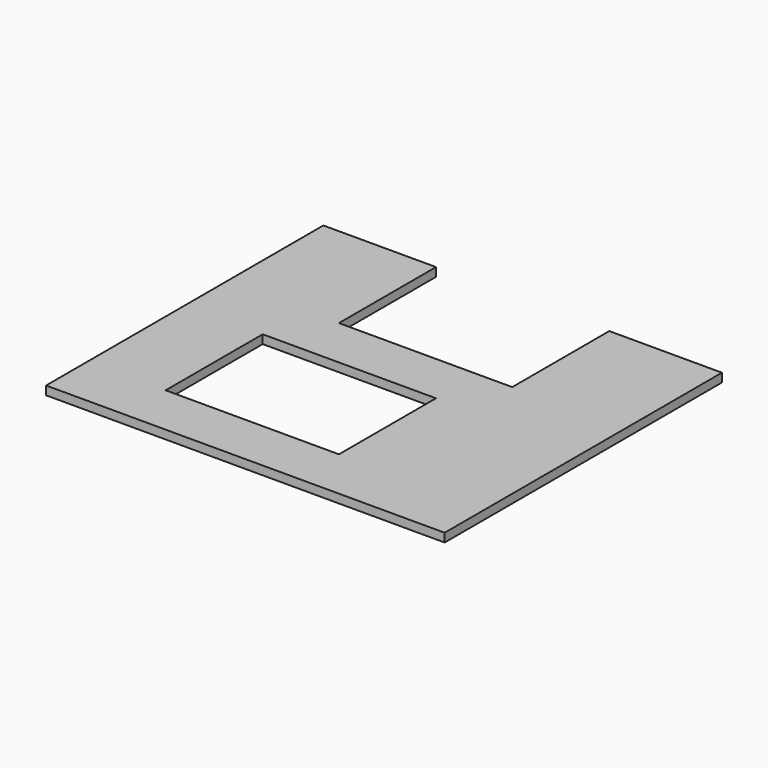
from build123d import *

# Parameters (mm, degrees)
F0_W     = 230
F0_H     = 200
F1_DEPTH = 5
F2_W     = 100
F2_H     = 70
F3_DEPTH = 25


with BuildPart() as f1:
    # F0 (on Top) → F1 (new body)
    with BuildSketch(Plane.XY):
        Rectangle(F0_W, F0_H)
    extrude(amount=F1_DEPTH)

    # F2 (on face) → F3 (cut)
    with BuildSketch(Plane.XY.offset(5)):
        with Locations((0, 65)):
            Rectangle(F2_W, F2_H)
        with Locations((-20, -35)):
            Rectangle(F2_W, F2_H)
    extrude(amount=-F3_DEPTH, mode=Mode.SUBTRACT)


solid = f1.part
